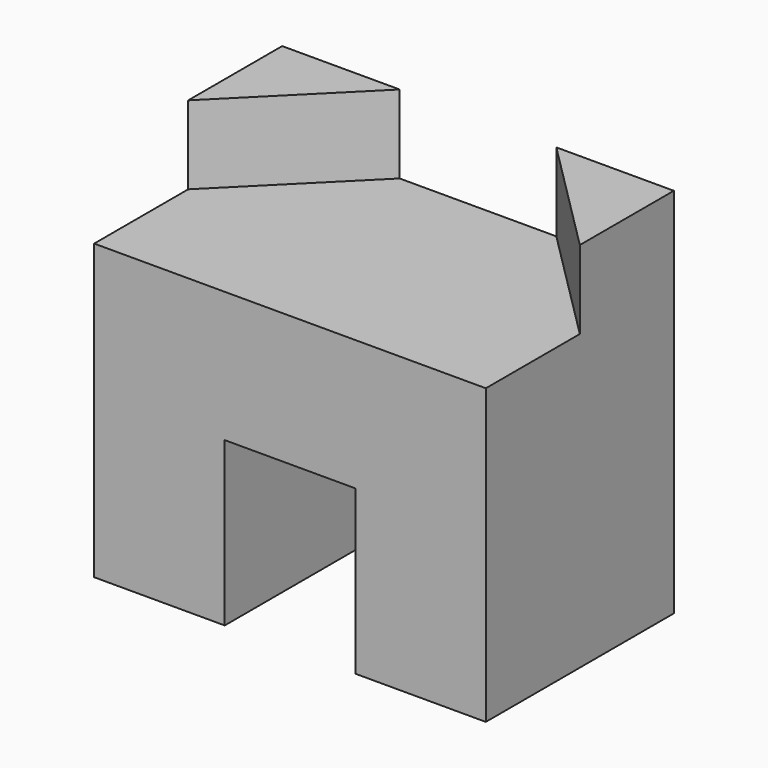
from build123d import *

# Parameters (mm, degrees)
F1_DEPTH = 36
F3_DEPTH = 12


with BuildPart() as f1:
    # F0 (on Front) → F1 (new body)
    with BuildSketch(Plane.XZ):
        Polygon((30, -28.5), (30, 16.5), (10, 16.5), (-10, 16.5), (-30, 16.5), (-30, -28.5), (-10, -28.5), (-10, -3.5), (10, -3.5), (10, -28.5), align=None)
    extrude(amount=F1_DEPTH)

    # F2 (on face) → F3 (join)
    with BuildSketch(Plane.XY.offset(16.5)):
        Polygon((30, 0), (12, 0), (30, -18), align=None)
        Polygon((-12, 0), (-30, 0), (-30, -18), align=None)
    extrude(amount=F3_DEPTH)


solid = f1.part
